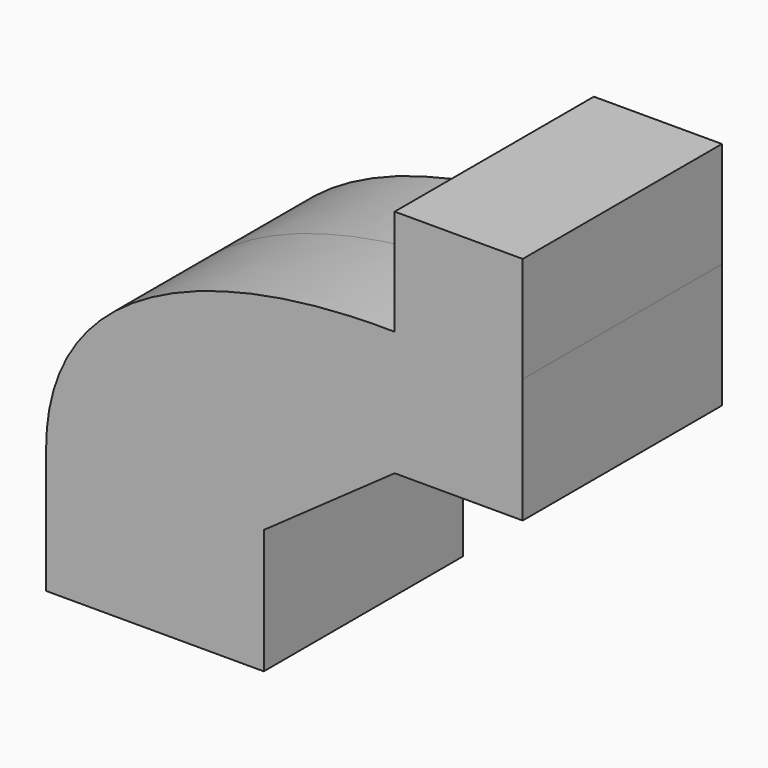
from build123d import *

# Parameters (mm, degrees)
F0_W     = 22.206857
F0_H     = 12.7
F0_W_2   = 13.062857
F1_DEPTH = 12.7
F2_DEPTH = 10.795


with BuildPart() as f1:
    # F0 (on Front) → F1 (new body, symmetric)
    with BuildSketch(Plane.XZ):
        with BuildLine():
            add(Edge.make_bspline(
                [(0, 12.7), (0, 29.538335), (18.433142, 35.12457), (35.559997, 34.834284)],
                knots=[0, 0, 0, 0, 41.886035, 41.886035, 41.886035, 41.886035], degree=3))
            Line((0, 12.7), (22.206857, 12.7))
            Line((22.206857, 12.7), (35.559997, 22.134284))
            Line((35.559997, 22.134284), (35.559997, 34.834284))
        make_face()
        with Locations((11.103428, 6.35)):
            Rectangle(F0_W, F0_H)
        with Locations((42.091425, 28.484284)):
            Rectangle(F0_W_2, F0_H)
    extrude(amount=F1_DEPTH, both=True)

    # F1_face (on face) → F2 (join)
    with BuildSketch(Plane(origin=(42.091425, 0, 34.834284), x_dir=(1, 0, 0), z_dir=(0, 0, 1))):
        Polygon((6.531428, -12.7), (6.531428, 12.7), (-6.531428, 12.7), (-6.531428, 0), (-6.531428, -12.7), align=None)
    extrude(amount=F2_DEPTH)


solid = f1.part
